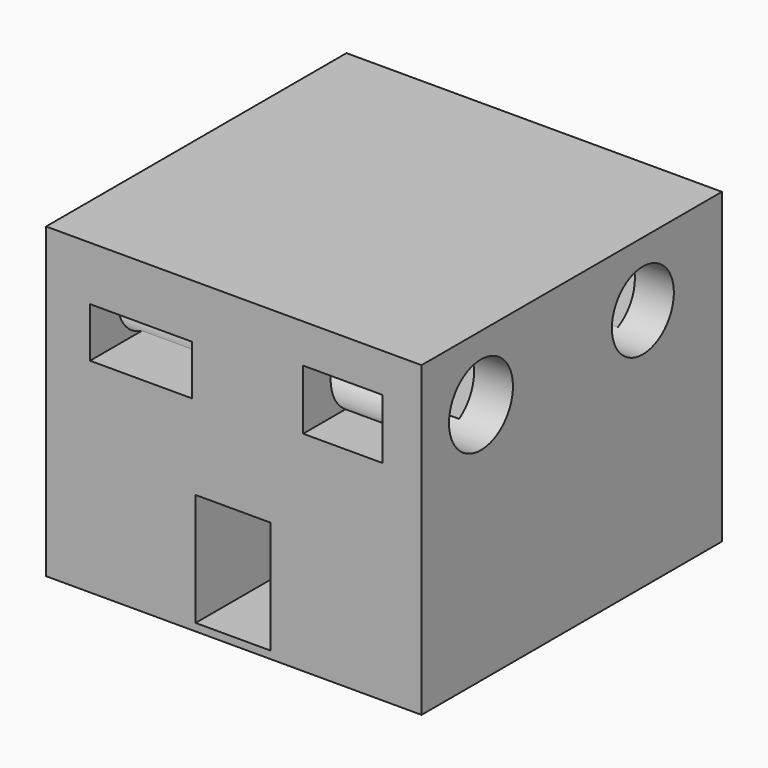
from build123d import *

# Parameters (mm, degrees)
F0_W     = 127
F0_H     = 127
F1_DEPTH = 101.6
F2_W     = 25.4
F2_H     = 38.1
F3_DEPTH = 76.2
F4_W     = 127
F4_H     = 127
F5_DEPTH = 2.54
F6_W     = 34.454562
F6_H     = 16.860753
F6_W_2   = 26.879448
F6_H_2   = 20.281769
F7_DEPTH = 127.001
F8_R     = 13.091888
F8_R_2   = 13.519639
F9_DEPTH = 127.001


with BuildPart() as f1:
    # F0 (on Top) → F1 (new body)
    with BuildSketch(Plane.XY):
        Rectangle(F0_W, F0_H)
    extrude(amount=F1_DEPTH)

    # F2 (on face) → F3 (cut)
    with BuildSketch(Plane.XZ.offset(63.5)):
        with Locations((-0.216101, 19.05)):
            Rectangle(F2_W, F2_H)
    extrude(amount=-F3_DEPTH, mode=Mode.SUBTRACT)

    # F4 (on face) → F5 (join)
    with BuildSketch(Plane(origin=(0, 0, 0), x_dir=(1, 0, 0), z_dir=(0, 0, -1))):
        Rectangle(F4_W, F4_H)
    extrude(amount=F5_DEPTH)

    # F6 (on face) → F7 (cut, through all)
    with BuildSketch(Plane(origin=(0, 63.5, 0), x_dir=(-1, 0, 0), z_dir=(0, 1, 0))):
        with Locations((31.400084, 74.889273)):
            Rectangle(F6_W, F6_H)
        with Locations((-36.898153, 78.310293)):
            Rectangle(F6_W_2, F6_H_2)
    extrude(amount=-F7_DEPTH, mode=Mode.SUBTRACT)

    # F8 (on face) → F9 (cut, through all)
    with BuildSketch(Plane(origin=(-63.5, 0, 0), x_dir=(0, -1, 0), z_dir=(-1, 0, 0))):
        with Locations((-30.068897, 79.871635)):
            Circle(F8_R)
        with Locations((38.37111, 79.601437)):
            Circle(F8_R_2)
    extrude(amount=-F9_DEPTH, mode=Mode.SUBTRACT)


solid = f1.part
